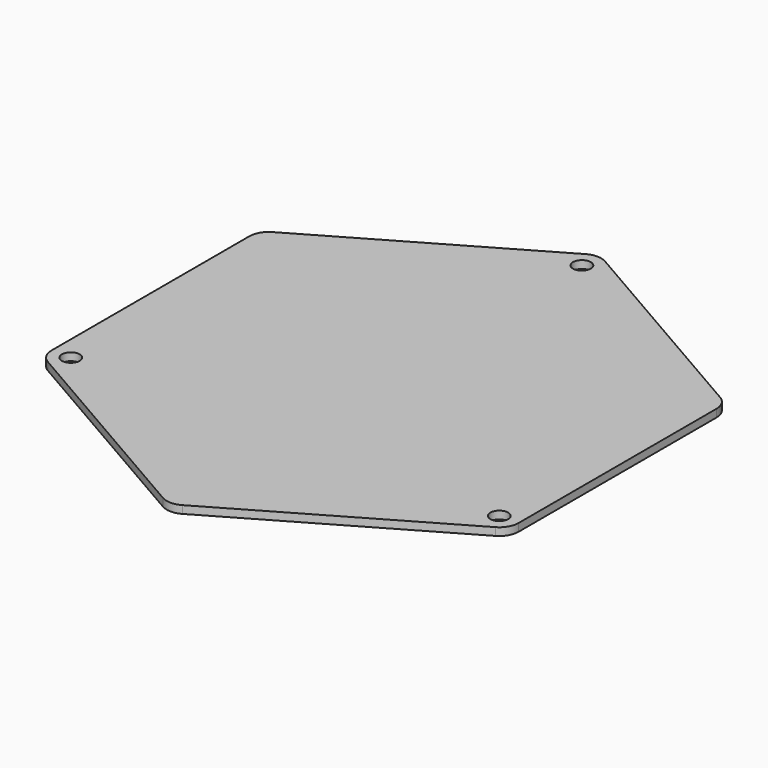
from build123d import *

# Parameters (mm, degrees)
F0_R     = 1.8288
F1_DEPTH = 1.5875
F2_R     = 3.96875


with BuildPart() as f1:
    # F0 (on Top) → F1 (new body)
    with BuildSketch(Plane.XY):
        Polygon((47.962841, 27.691359), (0, 55.382718), (-47.962841, 27.691359), (-47.962841, -27.691359), (0, -55.382718), (47.962841, -27.691359), align=None)
        with Locations((-43.994091, -25.4)):
            Circle(F0_R, mode=Mode.SUBTRACT)
        with Locations((43.994091, -25.4)):
            Circle(F0_R, mode=Mode.SUBTRACT)
        with Locations((0, 50.8)):
            Circle(F0_R, mode=Mode.SUBTRACT)
    extrude(amount=F1_DEPTH)

    # F2
    f2_edges = [f1.edges().sort_by_distance(p)[0] for p in [
        (-47.962841, -27.691359, 0.79375),
        (0, -55.382718, 0.79375),
        (47.962841, -27.691359, 0.79375),
        (47.962841, 27.691359, 0.79375),
        (0, 55.382718, 0.79375),
        (-47.962841, 27.691359, 0.79375),
    ]]
    fillet(f2_edges, radius=F2_R)


solid = f1.part
